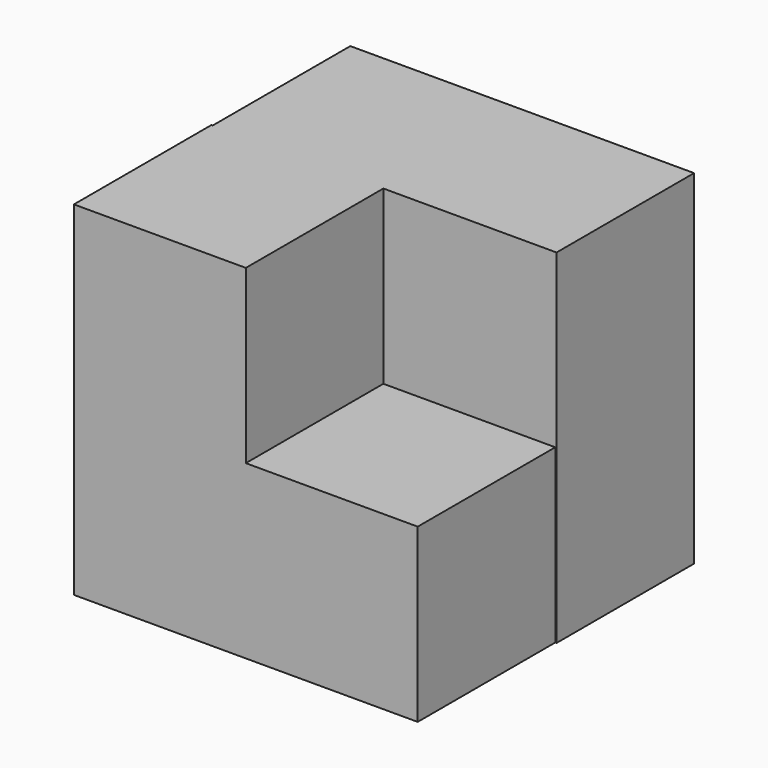
from build123d import *

# Parameters (mm, degrees)
F1_W     = 50.793938
F1_H     = 50.793942
F2_DEPTH = 25.4
F3_DEPTH = 25.4


with BuildPart() as f2:
    # F1 (on Front) → F2 (new body)
    with BuildSketch(Plane.XZ):
        with Locations((-15.085418, 14.70351)):
            Rectangle(F1_W, F1_H)
    extrude(amount=-F2_DEPTH)

    # F0 (on Front) → F3 (join)
    with BuildSketch(Plane.XZ):
        Polygon((-15.276372, 40.100481), (-40.673342, 40.100481), (-40.673342, -10.693461), (10.120596, -10.693461), (10.120596, 14.703508), (-15.276372, 14.703508), align=None)
    extrude(amount=F3_DEPTH)


solid = f2.part
